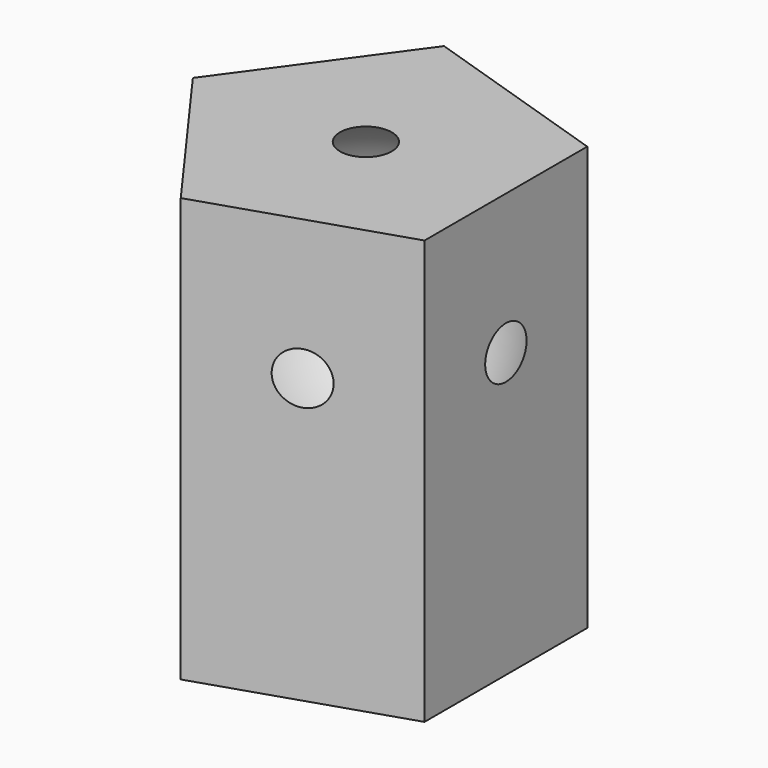
from build123d import *

# Parameters (mm, degrees)
PAD_DEPTH    = 250
SKETCH001_R  = 10
POCKET_DEPTH = 250.001


with BuildPart() as obj1:
    # Sphere → Sphere (revolve)
    with BuildSketch(Plane(origin=(0, 0, 167.417), x_dir=(1, 0, 0), z_dir=(0, -1, 0))):
        with BuildLine():
            ThreePointArc((0, -83.9829), (83.9829, 0), (0, 83.9829))
            Line((0, 83.9829), (0, -83.9829))
        make_face()
    revolve(axis=Axis((0, 0, 167.417), (0, 0, 1)))


with BuildPart() as cut:
    # Sketch → Pad (new body)
    with BuildSketch(Plane.XY):
        Polygon((-31.543867, 97.082039), (-102.078097, 0), (-31.543867, -97.082039), (82.582915, -60), (82.582915, 60), align=None)
    extrude(amount=PAD_DEPTH)

    # Sketch001 → Pocket (cut, through all)
    with BuildSketch(Plane.XY.offset(250)):
        Circle(SKETCH001_R)
    extrude(amount=-POCKET_DEPTH, mode=Mode.SUBTRACT)

    # Cut: cut obj1
    add(obj1.part, mode=Mode.SUBTRACT)


solid = cut.part
